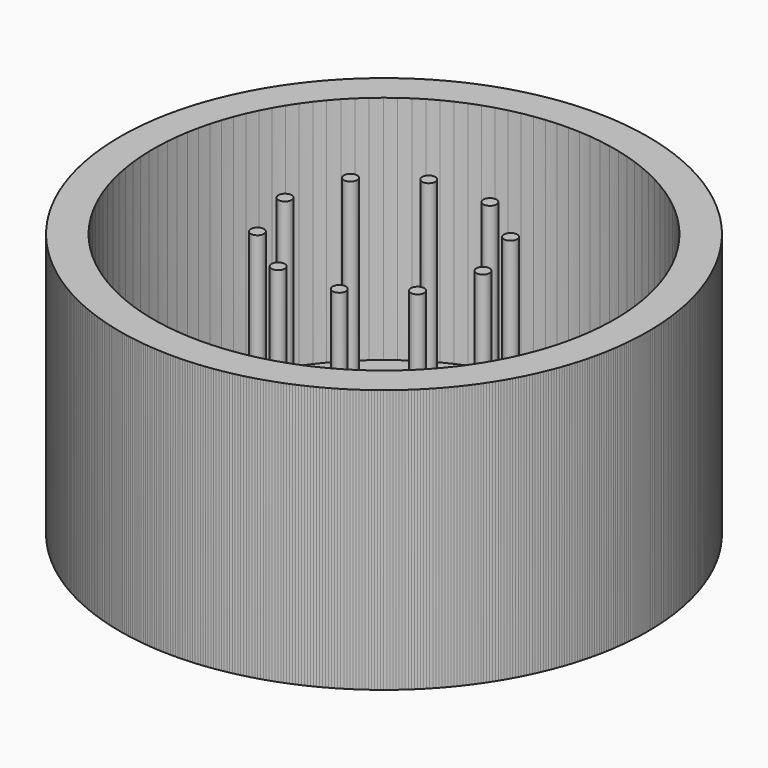
from build123d import *

# Parameters (mm, degrees)
F0_R     = 50.8
F1_DEPTH = 50.8
F2_R     = 44.45
F3_DEPTH = 44.45
F5_R     = 1.27
F6_DEPTH = 44.45
F8_COUNT = 10


with BuildPart() as f1:
    # F0 (on Top) → F1 (new body)
    with BuildSketch(Plane.XY):
        Circle(F0_R)
    extrude(amount=F1_DEPTH)

    # F2 (on face) → F3 (cut)
    with BuildSketch(Plane.XY.offset(50.8)):
        Circle(F2_R)
    extrude(amount=-F3_DEPTH, mode=Mode.SUBTRACT)

    # F5 (on face) → F6 (join)
    with BuildSketch(Plane.XY.offset(6.35)):
        with Locations((-19.050371, 0)):
            Circle(F5_R)
    extrude(amount=F6_DEPTH)


with BuildPart() as f8_1:
    # F8: instance of F1
    add(f1.part.rotate(Axis((0, 0, 29.638742), (0, 0, -1)), 1 * 360 / F8_COUNT))


with BuildPart() as f8_2:
    # F8: instance of F1
    add(f1.part.rotate(Axis((0, 0, 29.638742), (0, 0, -1)), 2 * 360 / F8_COUNT))


with BuildPart() as f8_3:
    # F8: instance of F1
    add(f1.part.rotate(Axis((0, 0, 29.638742), (0, 0, -1)), 3 * 360 / F8_COUNT))


with BuildPart() as f8_4:
    # F8: instance of F1
    add(f1.part.rotate(Axis((0, 0, 29.638742), (0, 0, -1)), 4 * 360 / F8_COUNT))


with BuildPart() as f8_5:
    # F8: instance of F1
    add(f1.part.rotate(Axis((0, 0, 29.638742), (0, 0, -1)), 5 * 360 / F8_COUNT))


with BuildPart() as f8_6:
    # F8: instance of F1
    add(f1.part.rotate(Axis((0, 0, 29.638742), (0, 0, -1)), 6 * 360 / F8_COUNT))


with BuildPart() as f8_7:
    # F8: instance of F1
    add(f1.part.rotate(Axis((0, 0, 29.638742), (0, 0, -1)), 7 * 360 / F8_COUNT))


with BuildPart() as f8_8:
    # F8: instance of F1
    add(f1.part.rotate(Axis((0, 0, 29.638742), (0, 0, -1)), 8 * 360 / F8_COUNT))


with BuildPart() as f8_9:
    # F8: instance of F1
    add(f1.part.rotate(Axis((0, 0, 29.638742), (0, 0, -1)), 9 * 360 / F8_COUNT))


solid = Compound([f1.part, f8_1.part, f8_2.part, f8_3.part, f8_4.part, f8_5.part, f8_6.part, f8_7.part, f8_8.part, f8_9.part])
